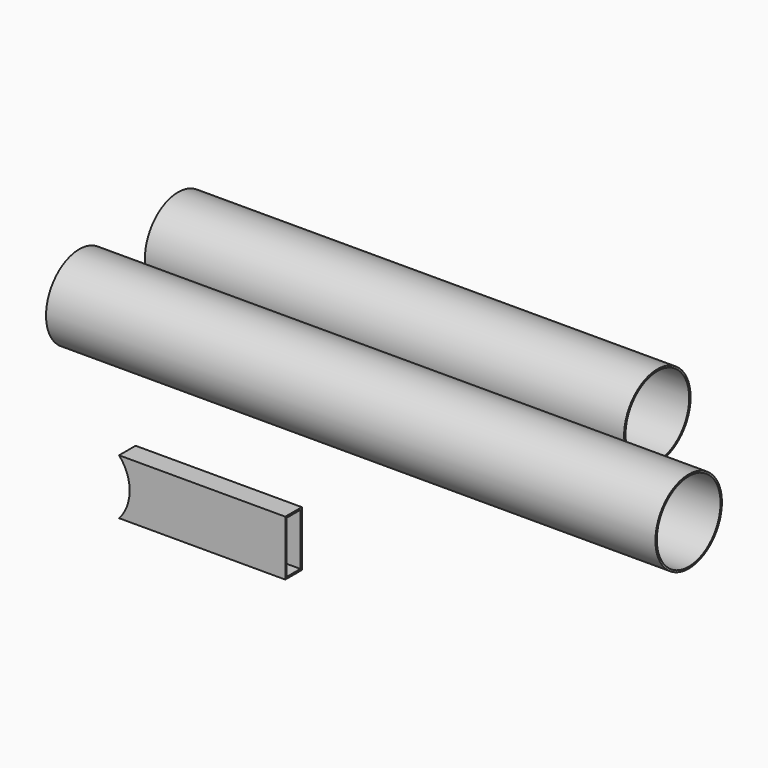
from build123d import *

# Parameters (mm, degrees)
F0_R     = 38.1
F0_R_2   = 36.5125
F1_DEPTH = 439.42
F2_R     = 38.1
F2_R_2   = 36.5125
F3_DEPTH = 558.8
F4_W     = 18.949736
F4_H     = 50.8
F4_W_2   = 15.774736
F4_H_2   = 47.625
F5_DEPTH = 152.4
F7_DEPTH = 50.8


with BuildPart() as f1:
    # F0 (on Right) → F1 (new body)
    with BuildSketch(Plane.YZ):
        Circle(F0_R)
        Circle(F0_R_2, mode=Mode.SUBTRACT)
        Circle(F0_R)
        Circle(F0_R_2, mode=Mode.SUBTRACT)
    extrude(amount=F1_DEPTH)


with BuildPart() as f3:
    # F2 (on Right) → F3 (new body)
    with BuildSketch(Plane.YZ):
        with Locations((-113.327235, 0)):
            Circle(F2_R)
        with Locations((-113.327235, 0)):
            Circle(F2_R_2, mode=Mode.SUBTRACT)
    extrude(amount=F3_DEPTH)


with BuildPart() as f5:
    # F4 (on Right) → F5 (new body)
    with BuildSketch(Plane.YZ):
        with Locations((-58.217695, -172.218693)):
            Rectangle(F4_W, F4_H)
        with Locations((-58.217695, -172.218693)):
            Rectangle(F4_W_2, F4_H_2, mode=Mode.SUBTRACT)
    extrude(amount=F5_DEPTH)

    # F6 (on face) → F7 (cut)
    with BuildSketch(Plane.XZ.offset(67.692563)):
        with BuildLine():
            Line((0, -146.818693), (0, -197.618693))
            ThreePointArc((0, -197.618693), (9.701937, -172.218693), (0, -146.818693))
        make_face()
    extrude(amount=-F7_DEPTH, mode=Mode.SUBTRACT)


solid = Compound([f1.part, f3.part, f5.part])
